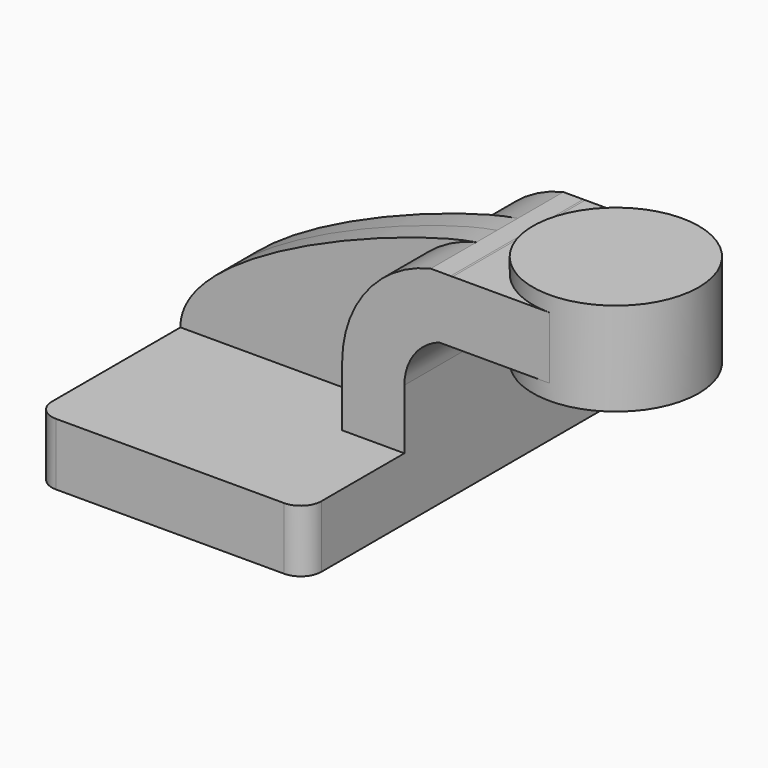
from build123d import *

# Parameters (mm, degrees)
F1_DEPTH = 63.5
F0_W     = 25.4
F0_H     = 19.05
F2_DEPTH = 25.4
F3_DEPTH = 7.9375
F5_R     = 6.35


with BuildPart() as f1:
    # F0 (on Front) → F1 (new body, symmetric)
    with BuildSketch(Plane.XZ):
        Polygon((-41.275, 9.525), (-41.275, -9.525), (41.275, -9.525), (41.275, 9.525), (22.225, 9.525), align=None)
    extrude(amount=F1_DEPTH, both=True)

    # F0 (on Front) → F2 (join, symmetric)
    with BuildSketch(Plane.XZ):
        with BuildLine():
            Line((22.225, 9.525), (41.275, 9.525))
            Line((41.275, 9.525), (41.275, 27.8859981267))
            ThreePointArc((41.275, 27.8859981267), (44.2074063081, 37.078652451), (51.9212857985, 42.8752))
            Line((51.9212857985, 42.8752), (60.325, 42.8752))
            Line((60.325, 42.8752), (60.325, 61.9252))
            Line((60.325, 61.9252), (56.0216490022, 61.9252))
            add(Edge.make_bspline(
                [(56.0216490022, 61.9252), (55.893919841, 61.9013716142), (55.5783651285, 61.9228608195), (55.4305035678, 61.9252)],
                knots=[0.9415521493, 0.9415521493, 0.9415521493, 0.9415521493, 0.9942623024, 0.9942623024, 0.9942623024, 0.9942623024], degree=3))
            Line((55.4305035678, 61.9252), (55.3886373275, 61.9252))
            Line((55.3886373275, 61.9252), (49.3340956488, 61.9252))
            ThreePointArc((49.3340956488, 61.9252), (29.8303542806, 49.6435849131), (22.225, 27.8859981267))
            Line((22.225, 27.8859981267), (22.225, 9.525))
        make_face()
        with Locations((73.025, 52.4002)):
            Rectangle(F0_W, F0_H)
    extrude(amount=F2_DEPTH, both=True)

    # F0 (on Front) → F3 (join, symmetric)
    with BuildSketch(Plane.XZ):
        with BuildLine():
            add(Edge.make_bspline(
                [(-41.275, 9.525), (-41.4724777652, 33.4488657069), (28.8867726716, 58.916791613), (49.3340956488, 61.9252)],
                knots=[0, 0, 0, 0, 0.7515772095, 0.7515772095, 0.7515772095, 0.7515772095], degree=3))
            Line((-41.275, 9.525), (22.225, 9.525))
            Line((22.225, 9.525), (22.225, 27.8859981267))
            ThreePointArc((22.225, 27.8859981267), (29.8303542806, 49.6435849131), (49.3340956488, 61.9252))
        make_face()
    extrude(amount=F3_DEPTH, both=True)

    # F0 (on Front) → F4 (revolve)
    with BuildSketch(Plane.XZ):
        Polygon((85.725, 66.675), (85.725, 61.9252), (85.725, 42.8752), (85.725, 38.1), (111.125, 38.1), (111.125, 66.675), align=None)
    revolve(axis=Axis((85.725, 0, 50.0126), (0, 0, 1)))

    # F5
    f5_edges = [f1.edges().sort_by_distance(p)[0] for p in [
        (-41.275, -63.5, 0),
        (41.275, -63.5, 0),
        (41.275, 63.5, 0),
        (-41.275, 63.5, 0),
    ]]
    fillet(f5_edges, radius=F5_R)


solid = f1.part
